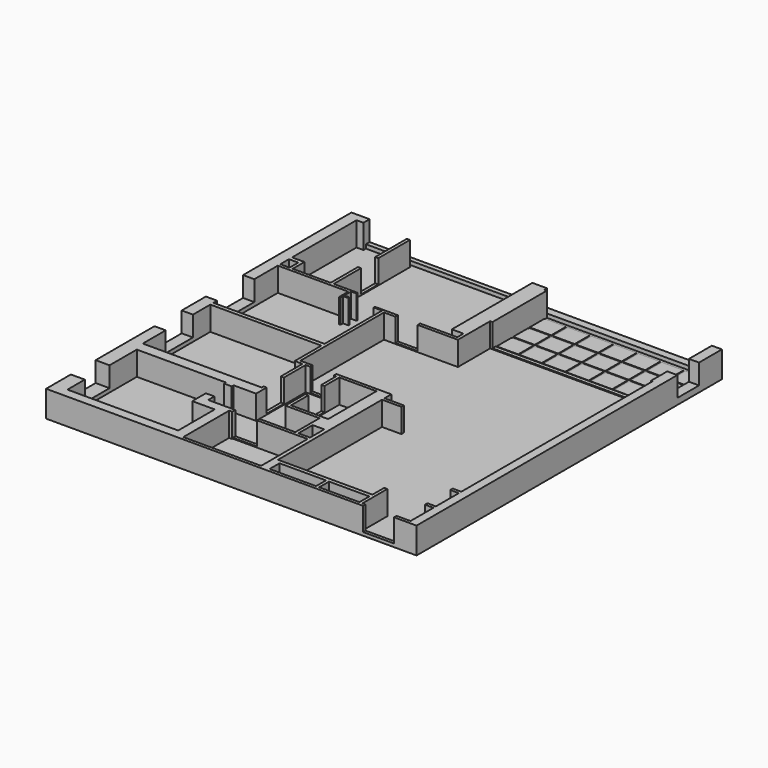
from build123d import *

# Parameters (mm, degrees)
F2_W     = 239.25
F2_H     = 244.5
F3_DEPTH = 1.5
F0_W     = 2
F0_H     = 12
F0_H_2   = 14
F0_W_2   = 7.5
F0_H_3   = 2
F0_H_4   = 11.5
F0_H_5   = 8
F0_W_3   = 5.5
F0_W_4   = 6.5
F0_H_6   = 5
F0_W_5   = 24
F0_H_7   = 17.5
F0_H_8   = 1.5
F0_W_6   = 5
F0_W_7   = 9
F0_W_8   = 7.25
F0_H_9   = 18.5
F0_W_9   = 71.75
F0_H_10  = 2.5
F0_H_11  = 7
F0_W_10  = 6
F0_H_12  = 25.5
F0_H_13  = 22
F0_W_11  = 12.5
F0_W_12  = 3.5
F0_H_14  = 1
F4_DEPTH = 17
F0_W_13  = 102.5
F0_W_14  = 14.25
F0_H_15  = 13
F0_W_15  = 15.25
F0_W_16  = 15.75
F0_W_17  = 20
F5_DEPTH = 2.1
F0_H_16  = 30
F0_H_17  = 20
F6_DEPTH = 4
F1_W     = 13.937272
F1_H     = 12.013844
F1_W_2   = 11.300252
F7_DEPTH = 1.8


with BuildPart() as f3:
    # F2 (on Top) → F3 (new body)
    with BuildSketch(Plane.XY):
        with Locations((47.935342, 71.387929)):
            Rectangle(F2_W, F2_H)
    extrude(amount=F3_DEPTH)

    # F0 (on Top) → F4 (join)
    with BuildSketch(Plane.XY):
        Polygon((60.060342, 10.137929), (68.060342, 10.137929), (68.060342, 43.637929), (68.060342, 45.637929), (68.060342, 51.137929), (60.060342, 51.137929), (60.060342, 49.137929), align=None)
        Polygon((36.060342, 49.137929), (60.060342, 49.137929), (60.060342, 51.137929), (32.560342, 51.137929), (32.560342, 49.137929), (34.060342, 49.137929), align=None)
        with Locations((35.060342, 43.137929)):
            Rectangle(F0_W, F0_H)
        with Locations((35.060342, 17.137929)):
            Rectangle(F0_W, F0_H_2)
        Polygon((56.060342, 8.137929), (56.060342, 10.137929), (36.060342, 10.137929), (34.060342, 10.137929), (34.060342, 8.137929), align=None)
        Polygon((65.560342, 0.137929), (68.060342, 0.137929), (68.060342, 10.137929), (60.060342, 10.137929), (56.060342, 10.137929), (56.060342, 8.137929), (56.060342, 0.137929), (58.060342, 0.137929), align=None)
        Polygon((65.560342, -13.362071), (65.560342, -40.362071), (68.060342, -40.362071), (68.060342, 0.137929), (65.560342, 0.137929), (65.560342, -11.362071), align=None)
        with Locations((61.810342, -12.362071)):
            Rectangle(F0_W_2, F0_H_3)
        with Locations((57.060342, -5.612071)):
            Rectangle(F0_W, F0_H_4)
        Polygon((33.060342, -13.362071), (58.060342, -13.362071), (58.060342, -11.362071), (56.060342, -11.362071), (33.060342, -11.362071), align=None)
        Polygon((15.310342, -11.362071), (15.310342, -13.862071), (17.310342, -13.862071), (17.310342, -13.362071), (17.310342, -11.362071), align=None)
        Polygon((8.810342, -46.862071), (15.310342, -46.862071), (15.310342, -13.862071), (15.310342, -11.362071), (8.810342, -11.362071), (8.810342, -17.362071), align=None)
        Polygon((-5.689658, -17.362071), (8.810342, -17.362071), (8.810342, -11.362071), (-0.189658, -11.362071), (-5.689658, -11.362071), align=None)
        Polygon((-5.689658, -11.362071), (-0.189658, -11.362071), (-0.189658, -6.362071), (-5.189658, -6.362071), (-5.689658, -6.362071), align=None)
        Polygon((-71.689658, -46.862071), (-71.689658, -52.862071), (15.310342, -52.862071), (15.310342, -50.862071), (15.310342, -46.862071), (8.810342, -46.862071), (-62.689658, -46.862071), align=None)
        Polygon((65.560342, -40.362071), (65.560342, -50.862071), (71.060342, -50.862071), (71.060342, -42.862071), (71.060342, -40.362071), (68.060342, -40.362071), align=None)
        Polygon((15.310342, -50.862071), (15.310342, -52.862071), (133.060342, -52.862071), (133.060342, -50.862071), (131.060342, -50.862071), (129.060342, -50.862071), (103.060342, -50.862071), (101.060342, -50.862071), (71.060342, -50.862071), (65.560342, -50.862071), align=None)
        Polygon((71.060342, -40.362071), (71.060342, -42.862071), (101.060342, -42.862071), (103.060342, -42.862071), (129.060342, -42.862071), (129.060342, -40.362071), align=None)
        with Locations((102.060342, -46.862071)):
            Rectangle(F0_W, F0_H_5)
        Polygon((129.060342, -50.862071), (131.060342, -50.862071), (131.060342, -30.862071), (129.060342, -30.862071), (129.060342, -40.362071), (129.060342, -42.862071), align=None)
        Polygon((162.060342, -50.862071), (167.560342, -50.862071), (167.560342, 144.637929), (162.060342, 144.637929), (162.060342, -9.862071), (162.060342, -11.862071), (162.060342, -30.362071), (162.060342, -32.362071), align=None)
        with Locations((159.310342, -31.362071)):
            Rectangle(F0_W_3, F0_H_3)
        with Locations((159.310342, -10.862071)):
            Rectangle(F0_W_3, F0_H_3)
        Polygon((153.060342, -50.862071), (153.060342, -52.862071), (167.560342, -52.862071), (167.560342, -50.862071), (162.060342, -50.862071), align=None)
        Polygon((162.060342, 144.637929), (167.560342, 144.637929), (167.560342, 157.637929), (161.060342, 157.637929), (161.060342, 147.137929), (161.060342, 144.637929), align=None)
        Polygon((161.060342, 175.137929), (167.560342, 175.137929), (167.560342, 188.637929), (161.060342, 188.637929), (161.060342, 186.637929), align=None)
        with Locations((164.310342, 191.137929)):
            Rectangle(F0_W_4, F0_H_6)
        Polygon((57.060342, 125.637929), (57.060342, 144.637929), (57.060342, 188.637929), (57.060342, 190.637929), (47.560342, 190.637929), (47.560342, 188.637929), (47.560342, 125.637929), (49.560342, 125.637929), (55.060342, 125.637929), align=None)
        Polygon((57.060342, 118.637929), (57.060342, 125.637929), (55.060342, 125.637929), (55.060342, 120.637929), (55.060342, 118.637929), align=None)
        with Locations((43.060342, 119.637929)):
            Rectangle(F0_W_5, F0_H_3)
        Polygon((7.310342, 73.137929), (7.310342, 70.637929), (7.310342, 51.137929), (9.310342, 51.137929), (9.310342, 118.637929), (9.310342, 120.637929), (7.310342, 120.637929), (7.310342, 119.637929), align=None)
        with Locations((13.060342, 119.637929)):
            Rectangle(F0_W_2, F0_H_3)
        Polygon((7.310342, 49.137929), (12.310342, 49.137929), (12.310342, 51.137929), (9.310342, 51.137929), (7.310342, 51.137929), align=None)
        Polygon((12.310342, 51.137929), (12.310342, 49.137929), (14.310342, 49.137929), (17.310342, 49.137929), (17.310342, 51.137929), align=None)
        with Locations((13.310342, 40.387929)):
            Rectangle(F0_W, F0_H_7)
        with Locations((13.310342, 16.887929)):
            Rectangle(F0_W, F0_H_8)
        Polygon((-62.689658, 16.137929), (-62.689658, 9.137929), (-5.189658, 9.137929), (-0.189658, 9.137929), (14.310342, 9.137929), (14.310342, 16.137929), (12.310342, 16.137929), align=None)
        with Locations((-2.689658, 8.387929)):
            Rectangle(F0_W_6, F0_H_8)
        Polygon((-71.689658, 16.137929), (-71.689658, -12.862071), (-62.689658, -12.862071), (-62.689658, 9.137929), (-62.689658, 16.137929), (-64.439658, 16.137929), align=None)
        with Locations((-67.189658, -39.862071)):
            Rectangle(F0_W_7, F0_H_2)
        with Locations((-68.064658, 25.387929)):
            Rectangle(F0_W_8, F0_H_9)
        Polygon((-71.689658, 76.137929), (-71.689658, 56.637929), (-64.439658, 56.637929), (-64.439658, 70.637929), (-64.439658, 73.137929), (-64.439658, 76.137929), align=None)
        with Locations((-28.564658, 71.887929)):
            Rectangle(F0_W_9, F0_H_10)
        Polygon((-71.689658, 193.637929), (-71.689658, 106.137929), (-64.439658, 106.137929), (-64.439658, 125.137929), (-64.439658, 127.137929), (-64.439658, 134.137929), (-64.439658, 136.637929), (-64.439658, 188.637929), (-64.439658, 193.637929), align=None)
        Polygon((-64.439658, 127.137929), (-64.439658, 125.137929), (-18.939658, 125.137929), (-17.939658, 125.137929), (-17.939658, 126.137929), (-17.939658, 127.137929), (-29.939658, 127.137929), (-31.939658, 127.137929), (-56.439658, 127.137929), (-58.439658, 127.137929), align=None)
        with Locations((-57.439658, 130.637929)):
            Rectangle(F0_W, F0_H_11)
        with Locations((-57.439658, 135.387929)):
            Rectangle(F0_W, F0_H_10)
        with Locations((-61.439658, 135.387929)):
            Rectangle(F0_W_10, F0_H_10)
        Polygon((-59.939658, 193.637929), (-64.439658, 193.637929), (-64.439658, 188.637929), (-59.939658, 188.637929), (-59.939658, 190.637929), align=None)
        with Locations((-30.939658, 175.887929)):
            Rectangle(F0_W, F0_H_12)
        with Locations((-30.939658, 138.137929)):
            Rectangle(F0_W, F0_H_13)
        Polygon((57.060342, 144.637929), (58.560342, 144.637929), (58.560342, 147.137929), (58.560342, 186.637929), (58.560342, 188.637929), (57.060342, 188.637929), align=None)
        with Locations((74.310342, 44.637929)):
            Rectangle(F0_W_11, F0_H_3)
        Polygon((-17.939658, 125.137929), (-18.939658, 125.137929), (-18.939658, 117.637929), (-17.939658, 117.637929), (-17.939658, 119.637929), (-17.939658, 120.637929), align=None)
        with Locations((-16.189658, 120.137929)):
            Rectangle(F0_W_12, F0_H_14)
        with Locations((-16.189658, 126.637929)):
            Rectangle(F0_W_12, F0_H_14)
        with Locations((4.560342, 120.137929)):
            Rectangle(F0_W_3, F0_H_14)
    extrude(amount=F4_DEPTH)

    # F0 (on Top) → F5 (join)
    with BuildSketch(Plane.XY):
        with Locations((109.810342, 145.887929)):
            Rectangle(F0_W_13, F0_H_10)
        with Locations((23.935342, 119.637929)):
            Rectangle(F0_W_14, F0_H_3)
        with Locations((35.060342, 30.637929)):
            Rectangle(F0_W, F0_H_15)
        with Locations((24.935342, 50.137929)):
            Rectangle(F0_W_15, F0_H_3)
        with Locations((13.310342, 24.637929)):
            Rectangle(F0_W, F0_H_2)
        with Locations((25.185342, -12.362071)):
            Rectangle(F0_W_16, F0_H_3)
        with Locations((143.060342, -51.862071)):
            Rectangle(F0_W_17, F0_H_3)
        with Locations((-30.939658, 156.137929)):
            Rectangle(F0_W, F0_H_2)
        with Locations((-2.689658, 0.637929)):
            Rectangle(F0_W_6, F0_H_2)
    extrude(amount=F5_DEPTH)

    # F0 (on Top) → F6 (join)
    with BuildSketch(Plane.XY):
        Polygon((58.560342, 188.637929), (161.060342, 188.637929), (161.060342, 193.637929), (-59.939658, 193.637929), (-59.939658, 190.637929), (47.560342, 190.637929), (57.060342, 190.637929), (57.060342, 188.637929), align=None)
        with Locations((-68.064658, 91.137929)):
            Rectangle(F0_W_8, F0_H_16)
        with Locations((-68.064658, 45.637929)):
            Rectangle(F0_W_8, F0_H_13)
        with Locations((-67.189658, -22.862071)):
            Rectangle(F0_W_7, F0_H_17)
        with Locations((164.310342, 166.387929)):
            Rectangle(F0_W_4, F0_H_7)
    extrude(amount=F6_DEPTH)

    # F1 (on face) → F7 (join)
    with BuildSketch(Plane.XY):
        with Locations((80.728936, 180.595286)):
            Rectangle(F1_W, F1_H)
        with Locations((65.528978, 180.631007)):
            Rectangle(F1_W, F1_H)
        with Locations((95.928894, 180.559565)):
            Rectangle(F1_W, F1_H)
        with Locations((111.128852, 180.523844)):
            Rectangle(F1_W, F1_H)
        with Locations((126.32881, 180.488123)):
            Rectangle(F1_W, F1_H)
        with Locations((141.528768, 180.452402)):
            Rectangle(F1_W, F1_H)
        Polygon((161.060342, 175.137929), (161.060342, 186.423603), (149.76009, 186.423603), (149.76009, 174.409759), (161.060342, 174.409759), align=None)
        with Locations((155.410216, 167.116681)):
            Rectangle(F1_W_2, F1_H)
        with Locations((141.528768, 167.152402)):
            Rectangle(F1_W, F1_H)
        with Locations((126.32881, 167.188123)):
            Rectangle(F1_W, F1_H)
        with Locations((111.128852, 167.223844)):
            Rectangle(F1_W, F1_H)
        with Locations((95.928894, 167.259565)):
            Rectangle(F1_W, F1_H)
        with Locations((80.728936, 167.295286)):
            Rectangle(F1_W, F1_H)
        with Locations((65.528978, 167.331007)):
            Rectangle(F1_W, F1_H)
        with Locations((65.528978, 154.031007)):
            Rectangle(F1_W, F1_H)
        with Locations((80.728936, 153.995286)):
            Rectangle(F1_W, F1_H)
        with Locations((95.928894, 153.959565)):
            Rectangle(F1_W, F1_H)
        with Locations((111.128852, 153.923844)):
            Rectangle(F1_W, F1_H)
        with Locations((126.32881, 153.888123)):
            Rectangle(F1_W, F1_H)
        with Locations((141.528768, 153.852402)):
            Rectangle(F1_W, F1_H)
        Polygon((149.76009, 147.809759), (161.060342, 147.809759), (161.060342, 157.637929), (161.060342, 159.823603), (149.76009, 159.823603), align=None)
    extrude(amount=F7_DEPTH)


solid = f3.part
